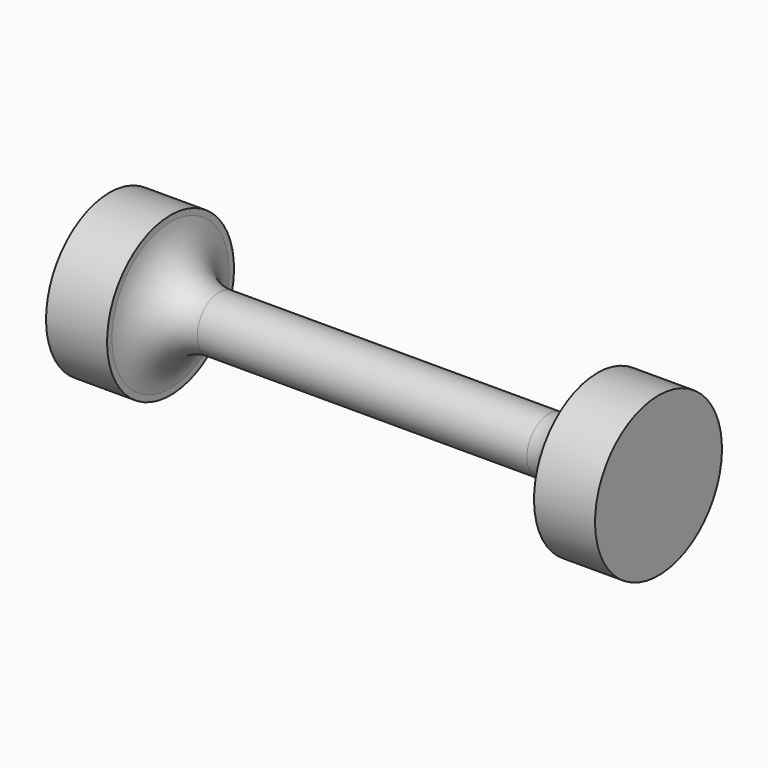
from build123d import *


with BuildPart() as f1:
    # F0 (on Front) → F1 (revolve)
    with BuildSketch(Plane.XZ):
        with BuildLine():
            ThreePointArc((34.9844362813, 12.9987757711), (35, 12.5), (34.9844362813, 12.0012242289))
            Line((34.9844362813, 12.0012242289), (34.9844362813, 0))
            Line((34.9844362813, 0), (44.9844362813, 0))
            Line((44.9844362813, 0), (44.9844362813, 12.9987757711))
            Line((44.9844362813, 12.9987757711), (34.9844362813, 12.9987757711))
        make_face()
        with BuildLine():
            Line((27, 4.5), (0, 4.5))
            Line((0, 4.5), (-27, 4.5))
            ThreePointArc((-27, 4.5), (-32.477672582, 6.6694680273), (-34.9844362813, 12.0012242289))
            Line((-34.9844362813, 12.0012242289), (-34.9844362813, 0))
            Line((-34.9844362813, 0), (34.9844362813, 0))
            Line((34.9844362813, 0), (34.9844362813, 12.0012242289))
            ThreePointArc((34.9844362813, 12.0012242289), (32.477672582, 6.6694680273), (27, 4.5))
        make_face()
        with BuildLine():
            Line((-34.9844362813, 0), (-34.9844362813, 12.0012242289))
            ThreePointArc((-34.9844362813, 12.0012242289), (-35, 12.5), (-34.9844362813, 12.9987757711))
            Line((-34.9844362813, 12.9987757711), (-44.9844362813, 12.9987757711))
            Line((-44.9844362813, 12.9987757711), (-44.9844362813, 0))
            Line((-44.9844362813, 0), (-34.9844362813, 0))
        make_face()
        with BuildLine():
            ThreePointArc((-34.9844362813, 12.9987757711), (-35, 12.5), (-34.9844362813, 12.0012242289))
            Line((-34.9844362813, 12.0012242289), (-34.9844362813, 12.9987757711))
        make_face()
        with BuildLine():
            Line((34.9844362813, 12.9987757711), (34.9844362813, 12.0012242289))
            ThreePointArc((34.9844362813, 12.0012242289), (35, 12.5), (34.9844362813, 12.9987757711))
        make_face()
    revolve(axis=Axis((0, 0, 0), (1, 0, 0)))


solid = f1.part
